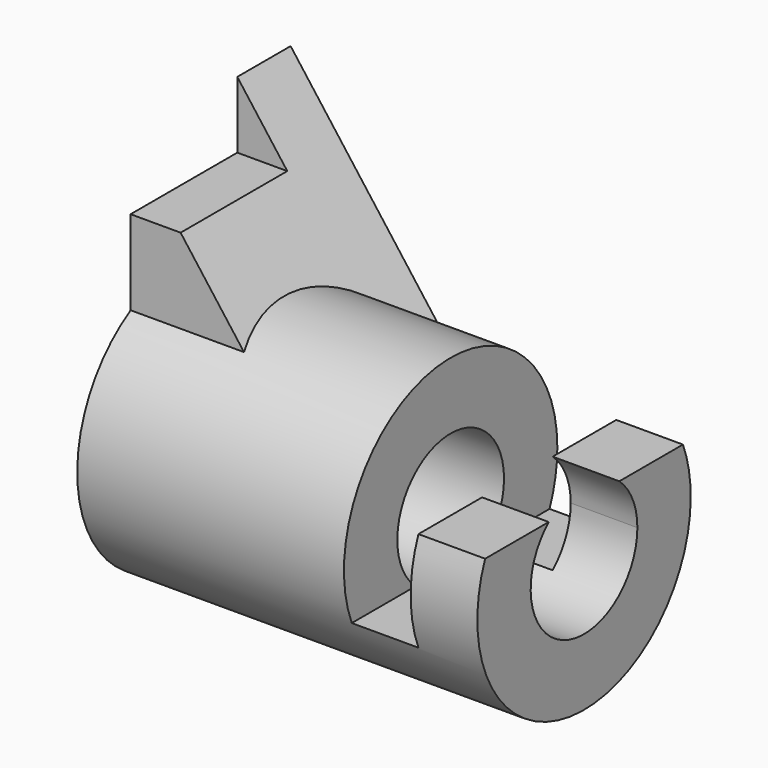
from build123d import *

# Parameters (mm, degrees)
F0_R     = 25.4
F0_R_2   = 12.7
F1_DEPTH = 76.2
F3_DEPTH = 27.94
F6_DEPTH = 12.7
F7_W     = 9.525
F7_H     = 10.5276096967
F7_H_2   = 16.1029547439
F8_DEPTH = 25.4


with BuildPart() as f1:
    # F0 (on Right) → F1 (new body)
    with BuildSketch(Plane.YZ):
        Circle(F0_R)
        Circle(F0_R_2, mode=Mode.SUBTRACT)
    extrude(amount=F1_DEPTH)

    # F2 (on Front) → F3 (cut, symmetric)
    with BuildSketch(Plane.XZ):
        Polygon((76.2, 25.4), (50.8, 25.4), (50.8, -9.525), (63.5, -9.525), (63.5, 9.525), (76.2, 9.525), align=None)
    extrude(amount=F3_DEPTH, both=True, mode=Mode.SUBTRACT)

    # F5 (on offset) → F6 (join)
    with BuildSketch(Plane.XZ.offset(-25.4)):
        Polygon((0, 0), (38.1, 0), (0, 50.8), align=None)
    extrude(amount=F6_DEPTH)

    # F7 (on face) → F8 (join)
    with BuildSketch(Plane.XZ.offset(-12.7)):
        with Locations((4.7625, 16.7332404078)):
            Rectangle(F7_W, F7_H)
        Polygon((21.6022160579, 21.9970452561), (9.525, 38.1), (9.525, 21.9970452561), align=None)
        with Locations((4.7625, 30.0485226281)):
            Rectangle(F7_W, F7_H_2)
    extrude(amount=F8_DEPTH)


solid = f1.part
